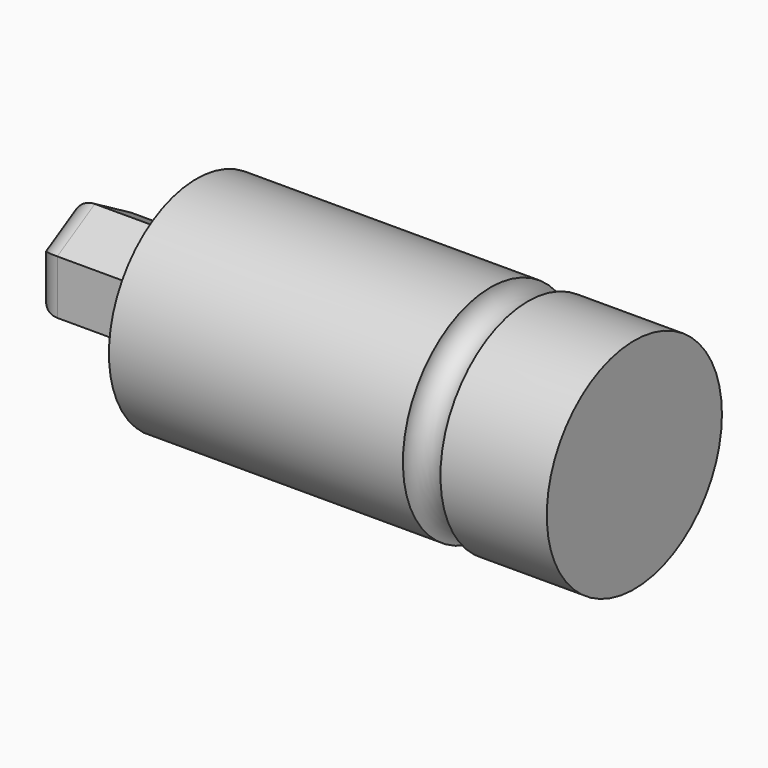
from build123d import *

# Parameters (mm, degrees)
F0_R     = 11.1125
F1_DEPTH = 44.45
F3_DEPTH = 12.7
F4_R     = 2.38125
F6_R     = 1.905


with BuildPart() as f1:
    # F0 (on Right) → F1 (new body)
    with BuildSketch(Plane.YZ):
        Circle(F0_R)
    extrude(amount=F1_DEPTH)

    # F2 (on Right) → F3 (join)
    with BuildSketch(Plane.YZ):
        Polygon((-4.7625, 2.749631), (-4.7625, -2.749631), (0, -5.499261), (4.7625, -2.749631), (4.7625, 2.749631), (0, 5.499261), align=None)
    extrude(amount=-F3_DEPTH)

    # F4
    f4_edges = [f1.edges().sort_by_distance(p)[0] for p in [
        (-12.7, -2.38125, 4.124446),
        (-12.7, 2.38125, 4.124446),
        (-12.7, 4.7625, 0),
        (-12.7, 2.38125, -4.124446),
        (-12.7, -2.38125, -4.124446),
        (-12.7, -4.7625, 0),
    ]]
    fillet(f4_edges, radius=F4_R)

    # F6 (on Front) → F7 (revolve, cut)
    with BuildSketch(Plane.XZ):
        with Locations((31.75, 11.1125)):
            Circle(F6_R)
    revolve(axis=Axis((39.763745, 0, 0), (1, 0, 0)), mode=Mode.SUBTRACT)


solid = f1.part
